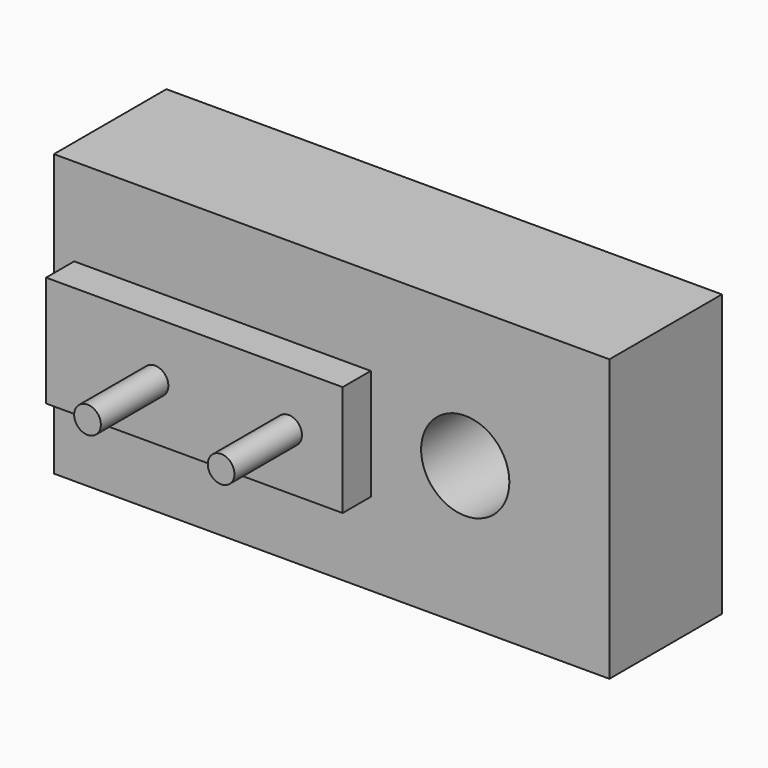
from build123d import *

# Parameters (mm, degrees)
F0_W     = 39.5
F0_H     = 20
F1_DEPTH = 10
F2_R     = 1.55
F3_DEPTH = 25
F4_W     = 21.086062
F4_H     = 7.881046
F5_DEPTH = 2.5
F7_DEPTH = 6
F8_R     = 3.136424
F9_DEPTH = 7.5


with BuildPart() as f1:
    # F0 (on Front) → F1 (new body)
    with BuildSketch(Plane.XZ):
        with Locations((19.75, 10)):
            Rectangle(F0_W, F0_H)
    extrude(amount=F1_DEPTH)

    # F2 (on face) → F3 (cut)
    with BuildSketch(Plane.XZ.offset(10)):
        with Locations((29.25, 10)):
            Circle(F2_R)
    extrude(amount=-F3_DEPTH, mode=Mode.SUBTRACT)

    # F4 (on face) → F5 (join)
    with BuildSketch(Plane.XZ.offset(10)):
        with Locations((11.988713, 9.816159)):
            Rectangle(F4_W, F4_H)
    extrude(amount=F5_DEPTH)

    # F6 (on face) → F7 (join)
    with BuildSketch(Plane.XZ.offset(12.5)):
        with BuildLine():
            Line((18.691611, 9.816159), (17.741611, 9.816159))
            ThreePointArc((17.741611, 9.816159), (18.691611, 8.866159), (19.641611, 9.816159))
            Line((19.641611, 9.816159), (18.691611, 9.816159))
        make_face()
        with BuildLine():
            ThreePointArc((19.641611, 9.816159), (18.691611, 10.766159), (17.741611, 9.816159))
            Line((17.741611, 9.816159), (18.691611, 9.816159))
            Line((18.691611, 9.816159), (19.641611, 9.816159))
        make_face()
        with BuildLine():
            ThreePointArc((10.141611, 9.816159), (9.191611, 10.766159), (8.241611, 9.816159))
            Line((8.241611, 9.816159), (9.191611, 9.816159))
            Line((9.191611, 9.816159), (10.141611, 9.816159))
        make_face()
        with BuildLine():
            Line((9.191611, 9.816159), (8.241611, 9.816159))
            ThreePointArc((8.241611, 9.816159), (9.191611, 8.866159), (10.141611, 9.816159))
            Line((10.141611, 9.816159), (9.191611, 9.816159))
        make_face()
    extrude(amount=F7_DEPTH)

    # F8 (on face) → F9 (cut)
    with BuildSketch(Plane.XZ.offset(10)):
        with Locations((29.25, 10)):
            Circle(F8_R)
    extrude(amount=-F9_DEPTH, mode=Mode.SUBTRACT)


solid = f1.part
